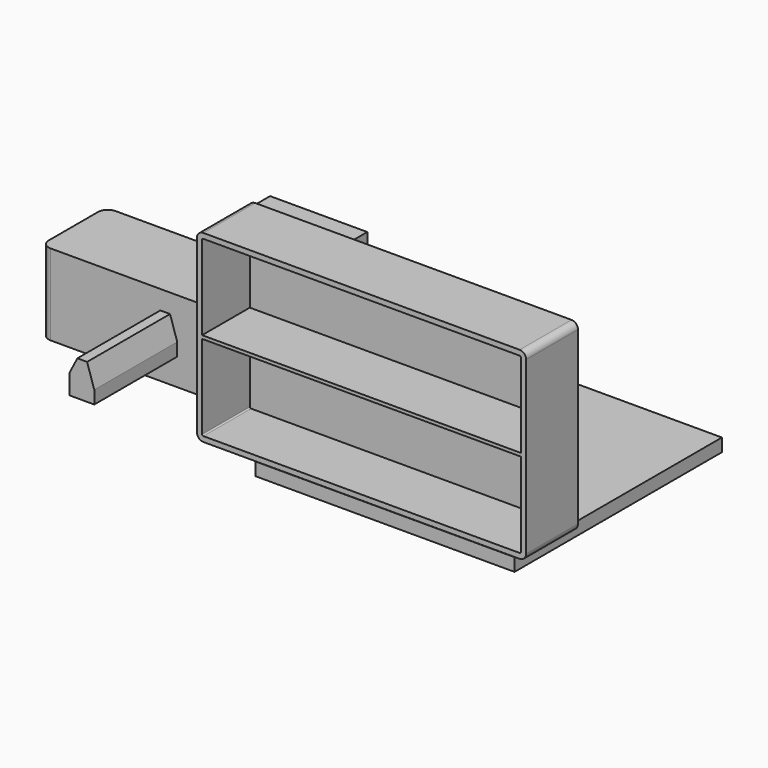
from build123d import *

# Parameters (mm, degrees)
F0_W      = 101.6
F0_H      = 101.6
F1_DEPTH  = 5.08
F3_DEPTH  = 40.64
F4_W      = 129.032
F4_H      = 72.136
F5_DEPTH  = 25.4
F6_R      = 2.54
F7_T      = -2.032
F8_W      = 124.968
F8_H      = 1.27
F9_DEPTH  = 23.368
F10_W     = 76.2
F10_H     = 31.75
F11_DEPTH = 31.75
F12_R     = 3.81
F13_T     = -2.032
F14_W     = 38.1
F14_H     = 31.75
F15_DEPTH = 9.525


with BuildPart() as f1:
    # F0 (on Top) → F1 (new body)
    with BuildSketch(Plane.XY):
        with Locations((50.8, 50.8)):
            Rectangle(F0_W, F0_H)
    extrude(amount=F1_DEPTH)


with BuildPart() as f3:
    # F2 (on Front) → F3 (new body)
    with BuildSketch(Plane.XZ):
        Polygon((-40.410629, 38.897461), (-40.410629, 31.277461), (-30.610629, 31.277461), (-30.610629, 36.357461), (-33.425629, 45.077461), (-37.235629, 45.077461), align=None)
    extrude(amount=F3_DEPTH)


with BuildPart() as f5:
    # F4 (on Front) → F5 (new body)
    with BuildSketch(Plane.XZ):
        with Locations((61.94177, 58.162778)):
            Rectangle(F4_W, F4_H)
    extrude(amount=F5_DEPTH)

    # F6
    f6_edges = [f5.edges().sort_by_distance(p)[0] for p in [
        (-2.57423, -12.7, 22.094778),
        (-2.57423, -12.7, 94.230778),
        (126.45777, -12.7, 22.094778),
        (126.45777, -12.7, 94.230778),
    ]]
    fillet(f6_edges, radius=F6_R)

    # F7
    f7_openings = [f5.faces().sort_by_distance(p)[0] for p in [
        (61.94177, -25.4, 58.162778),
    ]]
    offset(amount=F7_T, openings=f7_openings)

    # F8 (on face) → F9 (join, through all)
    with BuildSketch(Plane.XZ.offset(2.032)):
        with Locations((61.94177, 58.162778)):
            Rectangle(F8_W, F8_H)
    extrude(amount=F9_DEPTH)


with BuildPart() as f11:
    # F10 (on Top) → F11 (new body)
    with BuildSketch(Plane.XY):
        with Locations((-70.783477, 46.98319)):
            Rectangle(F10_W, F10_H)
    extrude(amount=F11_DEPTH)

    # F12
    f12_edges = [f11.edges().sort_by_distance(p)[0] for p in [
        (-108.883477, 31.10819, 15.875),
        (-108.883477, 62.85819, 15.875),
        (-32.683477, 62.85819, 15.875),
        (-32.683477, 31.10819, 15.875),
    ]]
    fillet(f12_edges, radius=F12_R)

    # F13
    f13_openings = [f11.faces().sort_by_distance(p)[0] for p in [
        (-70.783477, 46.98319, 0),
    ]]
    offset(amount=F13_T, openings=f13_openings)


with BuildPart() as f15:
    # F14 (on Top) → F15 (new body)
    with BuildSketch(Plane.XY):
        with Locations((-81.955737, 117.609583)):
            Rectangle(F14_W, F14_H)
    extrude(amount=F15_DEPTH)


solid = Compound([f1.part, f3.part, f5.part, f11.part, f15.part])
